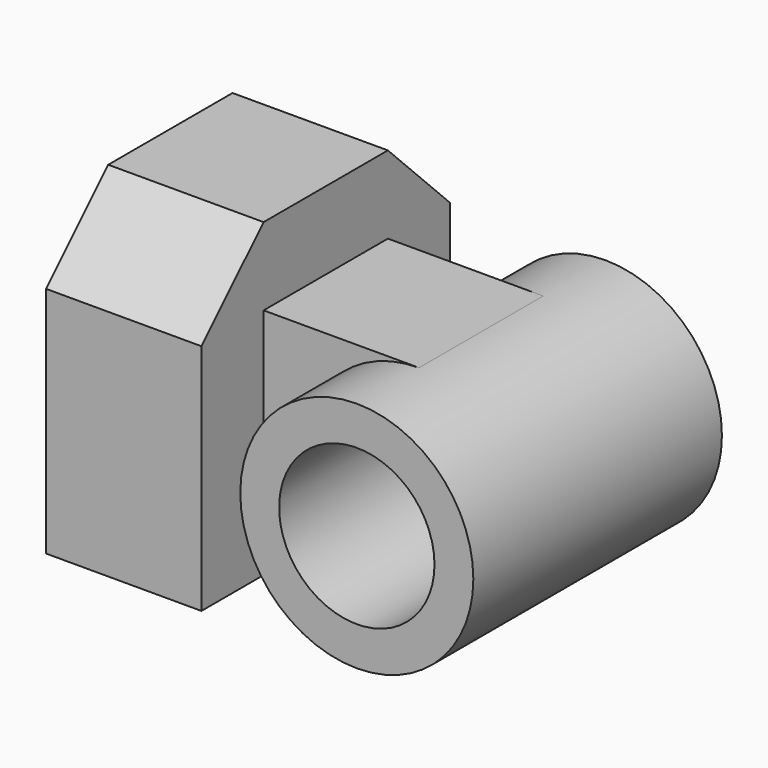
from build123d import *

# Parameters (mm, degrees)
F0_W      = 25.4
F0_H      = 25.4
F1_DEPTH  = 12.7
F3_DEPTH  = 12.7
F5_DEPTH  = 12.7
F6_W      = 12.7
F6_H      = 19.05
F7_DEPTH  = 12.7
F8_R      = 9.525
F9_DEPTH  = 25.4
F10_R     = 6.35
F11_DEPTH = 25.4


with BuildPart() as f1:
    # F0 (on Right) → F1 (new body)
    with BuildSketch(Plane.YZ):
        with Locations((12.7, 12.7)):
            Rectangle(F0_W, F0_H)
    extrude(amount=F1_DEPTH)

    # F2 (on Right) → F3 (cut)
    with BuildSketch(Plane.YZ):
        Polygon((6.35, 25.4), (0, 25.4), (0, 19.05), align=None)
    extrude(amount=F3_DEPTH, mode=Mode.SUBTRACT)

    # F4 (on Right) → F5 (cut)
    with BuildSketch(Plane.YZ):
        Polygon((19.05, 25.4), (25.4, 19.05), (25.4, 25.4), align=None)
    extrude(amount=F5_DEPTH, mode=Mode.SUBTRACT)

    # F6 (on face) → F7 (join)
    with BuildSketch(Plane.YZ.offset(12.7)):
        with Locations((12.7, 9.525)):
            Rectangle(F6_W, F6_H)
    extrude(amount=F7_DEPTH)

    # F8 (on Front) → F9 (join)
    with BuildSketch(Plane.XZ):
        with Locations((25.4, 9.525)):
            Circle(F8_R)
    extrude(amount=-F9_DEPTH)

    # F10 (on face) → F11 (cut)
    with BuildSketch(Plane.XZ):
        with Locations((25.4, 9.525)):
            Circle(F10_R)
    extrude(amount=-F11_DEPTH, mode=Mode.SUBTRACT)


solid = f1.part
